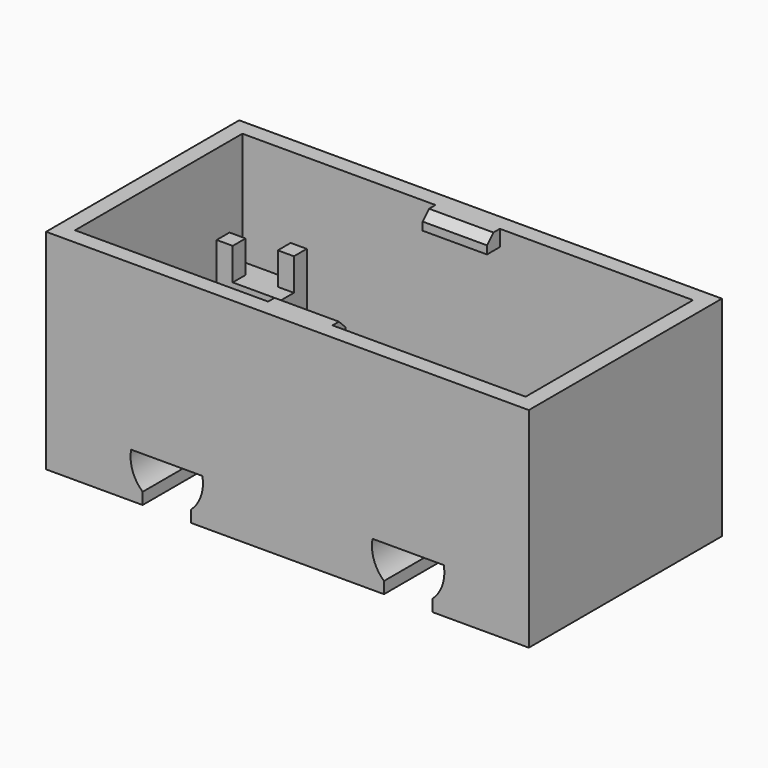
from build123d import *

# Parameters (mm, degrees)
SKETCH_W                   = 30
SKETCH_H                   = 15
PAD_DEPTH                  = 3.5
POCKET_DEPTH               = 15.001
LINEARPATTERN_COUNT        = 2
LINEARPATTERN_PITCH        = 15
SKETCH003_W                = 4
SKETCH003_H                = 2
PAD001_DEPTH               = 2.5
SKETCH003_MIRRORED_2_W     = 4
SKETCH003_MIRRORED_2_H     = 2
PAD001_MIRRORED_2_DEPTH    = 2.5
SKETCH004_W                = 30
SKETCH004_H                = 15
SKETCH004_W_2              = 28
SKETCH004_H_2              = 13
PAD002_DEPTH               = 9.5
SKETCH005_W                = 1
SKETCH005_H                = 1
PAD003_DEPTH               = 2
SKETCH005_MIRRORED002_2_W  = 1
SKETCH005_MIRRORED002_2_H  = 1
PAD003_MIRRORED002_2_DEPTH = 2
SKETCH006_W                = 4
SKETCH006_H                = 1
PAD004_DEPTH               = 1
CHAMFER_SIZE               = 0.5


with BuildPart() as part:
    # Sketch → Pad (new body)
    with BuildSketch(Plane.XY):
        Rectangle(SKETCH_W, SKETCH_H)
    extrude(amount=PAD_DEPTH)

    # Sketch002 (on Face3 of Pad) → Pocket (cut, through all)
    with BuildSketch(Plane.XZ.offset(7.5)):
        with BuildLine():
            Line((-9, 0.722949), (-9, 0))
            Line((-9, 0), (-6, 0))
            Line((-6, 0.722949), (-6, 0))
            ThreePointArc((-6, 0.722949), (-5.37226, 1.668412), (-5.285841, 2.8))
            Line((-9.714159, 2.8), (-5.285841, 2.8))
            ThreePointArc((-9.714159, 2.8), (-9.62774, 1.668412), (-9, 0.722949))
        make_face()
    pocket = extrude(amount=-POCKET_DEPTH, mode=Mode.SUBTRACT)

    # LinearPattern: Pocket ×2
    with Locations(*[(i * LINEARPATTERN_PITCH, 0, 0) for i in range(1, LINEARPATTERN_COUNT)]):
        add(pocket, mode=Mode.SUBTRACT)

    # Sketch003 (on Face16 of LinearPattern) → Pad001 (join)
    with BuildSketch(Plane.XY.offset(3.5)):
        with Locations((-12, 5.5)):
            Rectangle(SKETCH003_W, SKETCH003_H)
    pad001 = extrude(amount=PAD001_DEPTH)

    # Sketch003 Mirrored 2 → Pad001 Mirrored 2 (add)
    with BuildSketch(Plane(origin=(0, 0, 3.5), x_dir=(-1, 0, 0), z_dir=(0, 0, -1))):
        with Locations((-12, 5.5)):
            Rectangle(SKETCH003_MIRRORED_2_W, SKETCH003_MIRRORED_2_H)
    pad001_mirrored_2 = extrude(amount=-PAD001_MIRRORED_2_DEPTH)

    # Mirrored001: Pad001, Pad001 Mirrored 2 across XZ
    add(pad001.mirror(Plane.XZ))
    add(pad001_mirrored_2.mirror(Plane.XZ))

    # Sketch004 (on Face16 of MultiTransform) → Pad002 (join)
    with BuildSketch(Plane.XY.offset(3.5)):
        Rectangle(SKETCH004_W, SKETCH004_H)
        Rectangle(SKETCH004_W_2, SKETCH004_H_2, mode=Mode.SUBTRACT)
    extrude(amount=PAD002_DEPTH)

    # Sketch005 (on Face31 of Pad002) → Pad003 (join)
    with BuildSketch(Plane.XY.offset(6)):
        with Locations((-10.5, 6)):
            Rectangle(SKETCH005_W, SKETCH005_H)
        with Locations((-13.5, 5)):
            Rectangle(SKETCH005_W, SKETCH005_H)
    pad003 = extrude(amount=PAD003_DEPTH)

    # Sketch005 Mirrored002 2 → Pad003 Mirrored002 2 (add)
    with BuildSketch(Plane(origin=(0, 0, 6), x_dir=(-1, 0, 0), z_dir=(0, 0, -1))):
        with Locations((-10.5, 6)):
            Rectangle(SKETCH005_MIRRORED002_2_W, SKETCH005_MIRRORED002_2_H)
        with Locations((-13.5, 5)):
            Rectangle(SKETCH005_MIRRORED002_2_W, SKETCH005_MIRRORED002_2_H)
    pad003_mirrored002_2 = extrude(amount=-PAD003_MIRRORED002_2_DEPTH)

    # Mirrored003: Pad003, Pad003 Mirrored002 2 across XZ
    add(pad003.mirror(Plane.XZ))
    add(pad003_mirrored002_2.mirror(Plane.XZ))

    # Sketch006 (on Face26 of MultiTransform001) → Pad004 (join)
    with BuildSketch(Plane.XZ.offset(-6.5)):
        with Locations((0, 12.5)):
            Rectangle(SKETCH006_W, SKETCH006_H)
    pad004 = extrude(amount=PAD004_DEPTH)

    # Mirrored004: Pad004 across XZ
    add(pad004.mirror(Plane.XZ))

    # Chamfer
    chamfer_edges = [part.edges().sort_by_distance(p)[0] for p in [
        (0, 5.5, 13),
        (0, -5.5, 13),
    ]]
    chamfer(chamfer_edges, length=CHAMFER_SIZE)


solid = part.part
